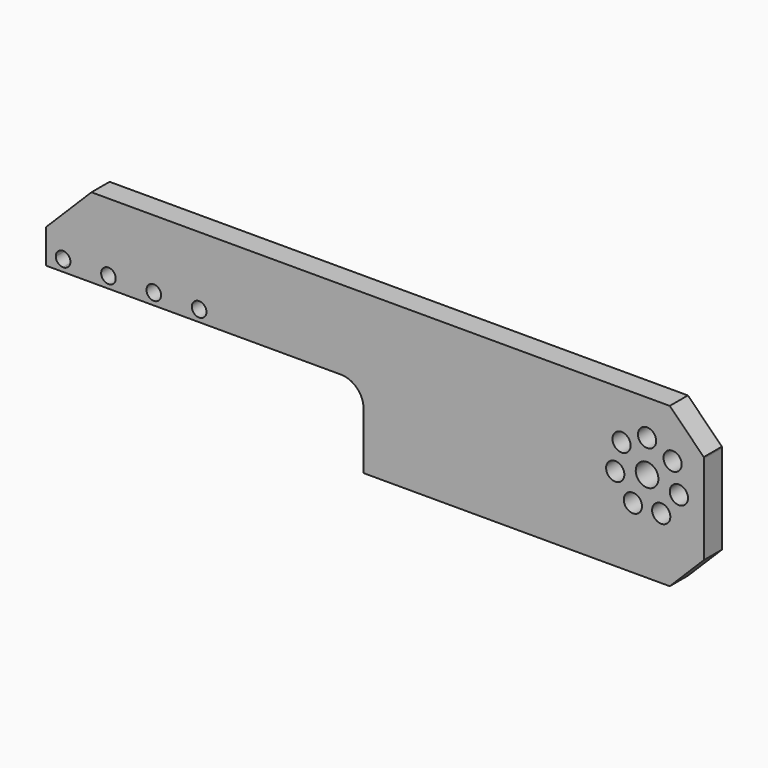
from build123d import *

# Parameters (mm, degrees)
F0_R     = 2.5527
F0_R_2   = 2.0447
F1_DEPTH = 6.35


with BuildPart() as f1:
    # F0 (on Front) → F1 (new body)
    with BuildSketch(Plane.XZ):
        with BuildLine():
            Line((68.248638998, 27.127346991), (-93.676361002, 27.127346991))
            Line((-93.676361002, 27.127346991), (-106.376361002, 14.427346991))
            Line((-106.376361002, 14.427346991), (-106.376361002, 8.077346991))
            Line((-106.376361002, 8.077346991), (-103.658561002, 8.077346991))
            ThreePointArc((-103.658561002, 8.077346991), (-101.613861002, 10.122046991), (-99.569161002, 8.077346991))
            ThreePointArc((-99.569161002, 8.077346991), (-100.1680397665, 6.6315257555), (-101.613861002, 6.032646991))
            Line((-101.613861002, 6.032646991), (-101.613861002, 4.902346991))
            Line((-101.613861002, 4.902346991), (-93.676361002, 4.902346991))
            Line((-93.676361002, 4.902346991), (-80.976361002, 4.902346991))
            Line((-80.976361002, 4.902346991), (-68.276361002, 4.902346991))
            Line((-68.276361002, 4.902346991), (-23.826361002, 4.902346991))
            ThreePointArc((-23.826361002, 4.902346991), (-19.3362329414, 3.0424750515), (-17.476361002, -1.447653009))
            Line((-17.476361002, -1.447653009), (-17.476361002, -17.322653009))
            Line((-17.476361002, -17.322653009), (68.248638998, -17.322653009))
            Line((68.248638998, -17.322653009), (77.7677104864, -7.8035815207))
            Line((77.7677104864, -7.8035815207), (77.7735500911, 17.2213469914))
            Line((77.7735500911, 17.2213469914), (77.773638998, 17.602346991))
            Line((77.773638998, 17.602346991), (68.248638998, 27.127346991))
        make_face()
        with Locations((57.9256516639, -0.1561603153)):
            Circle(F0_R, mode=Mode.SUBTRACT)
        with Locations((65.8605174852, -0.1586554495)):
            Circle(F0_R, mode=Mode.SUBTRACT)
        with Locations((-88.913861002, 8.077346991)):
            Circle(F0_R_2, mode=Mode.SUBTRACT)
        with Locations((-76.213861002, 8.077346991)):
            Circle(F0_R_2, mode=Mode.SUBTRACT)
        with Locations((-63.513861002, 8.077346991)):
            Circle(F0_R_2, mode=Mode.SUBTRACT)
        with Locations((52.9802945197, 6.0491232838)):
            Circle(F0_R, mode=Mode.SUBTRACT)
        with BuildLine():
            ThreePointArc((69.2697310726, 8.079330699), (70.8103718549, 8.5962166985), (72.3507712371, 8.0786117336))
            ThreePointArc((72.3507712371, 8.0786117336), (73.0955993755, 7.1798660109), (73.3624761785, 6.043516768))
            ThreePointArc((73.3624761785, 6.043516768), (69.6728935662, 3.757958802), (69.2697310726, 8.079330699))
        make_face(mode=Mode.SUBTRACT)
        with BuildLine():
            ThreePointArc((65.0706751744, 8.0810514461), (65.0706751528, 8.0806810005), (65.070675088, 8.080310555))
            ThreePointArc((65.070675088, 8.080310555), (58.720675196, 8.0814218916), (65.0706751744, 8.0810514461))
        make_face(mode=Mode.SUBTRACT)
        with Locations((54.7484008492, 13.7844902328)):
            Circle(F0_R, mode=Mode.SUBTRACT)
        with Locations((69.0465350011, 13.7799941562)):
            Circle(F0_R, mode=Mode.SUBTRACT)
        with BuildLine():
            ThreePointArc((64.4512505233, 17.2250514465), (64.451250506, 17.2247536083), (64.4512504538, 17.2244557701))
            ThreePointArc((64.4512504538, 17.2244557701), (59.3458505407, 17.2253492846), (64.4512505233, 17.2250514465))
        make_face(mode=Mode.SUBTRACT)
        with BuildLine():
            Line((-103.658561002, 8.077346991), (-106.376361002, 8.077346991))
            Line((-106.376361002, 8.077346991), (-106.376361002, 4.902346991))
            Line((-106.376361002, 4.902346991), (-101.613861002, 4.902346991))
            Line((-101.613861002, 4.902346991), (-101.613861002, 6.032646991))
            ThreePointArc((-101.613861002, 6.032646991), (-103.0596822375, 6.6315257555), (-103.658561002, 8.077346991))
        make_face()
    extrude(amount=F1_DEPTH)


solid = f1.part
